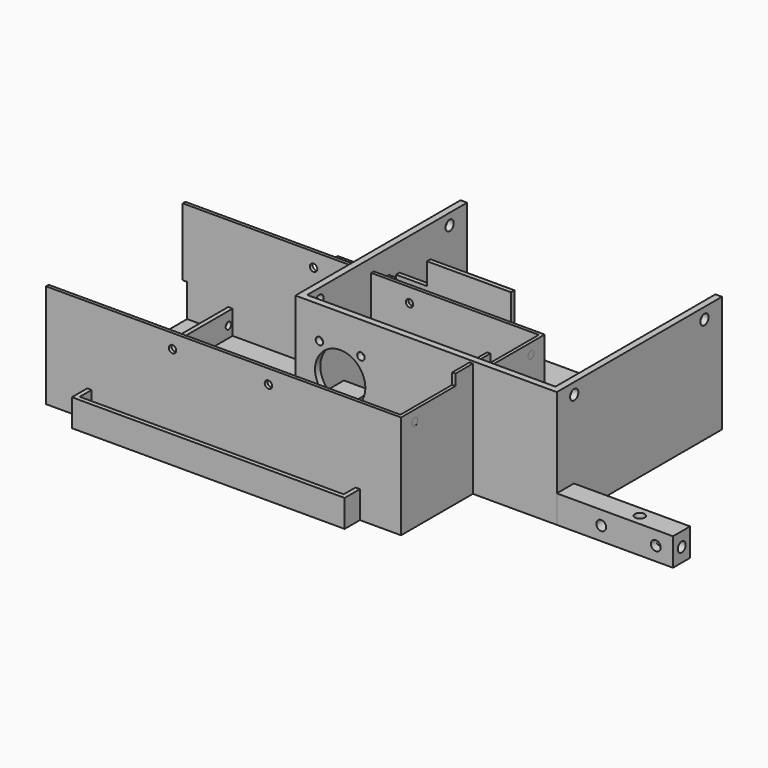
from build123d import *

# Parameters (mm, degrees)
SKETCH_W        = 162.3
SKETCH_H        = 9.8
SKETCH_R        = 1.7
PAD_DEPTH       = 0.75
SKETCH001_W     = 254
SKETCH001_H     = 9.8
SKETCH001_R     = 1.7
SKETCH001_R_2   = 2.25
PAD001_DEPTH    = 12.7
SKETCH002_R     = 2.25
POCKET_DEPTH    = 9.801
SKETCH003_R     = 2.25
POCKET001_DEPTH = 10
SKETCH004_R     = 2.25
POCKET002_DEPTH = 10
SKETCH005_W     = 119.65
SKETCH005_H     = 94.5
PAD002_DEPTH    = 1.5
SKETCH006_W     = 1.5
SKETCH006_H     = 94.5
PAD003_DEPTH    = 10
SKETCH007_R     = 1.7
POCKET003_DEPTH = 1.5
PAD004_DEPTH    = 52
SKETCH009_R     = 4
POCKET004_DEPTH = 3
SKETCH010_R     = 11.5
SKETCH010_R_2   = 1.7
POCKET005_DEPTH = 3
SKETCH011_W     = 16
SKETCH011_H     = 9
PAD005_DEPTH    = 9
SKETCH012_R     = 1.6
POCKET006_DEPTH = 16.001
POCKET007_DEPTH = 13
SKETCH014_R     = 1.7
POCKET008_DEPTH = 1.5
SKETCH015_R     = 2.35
POCKET009_DEPTH = 119.651
SKETCH016_W     = 124.85
SKETCH016_H     = 99.7
PAD006_DEPTH    = 1.5
SKETCH017_W     = 124.85
SKETCH017_H     = 99.7
SKETCH017_W_2   = 120.85
SKETCH017_H_2   = 95.7
PAD007_DEPTH    = 11
SKETCH018_R     = 1.6
POCKET010_DEPTH = 124.851
SKETCH019_R     = 2.5
SKETCH019_R_2   = 1.1
PAD008_DEPTH    = 8
SKETCH020_W     = 38.5
SKETCH020_H     = 2
PAD009_DEPTH    = 42.5
SKETCH021_W     = 14.1
SKETCH021_H     = 2
PAD010_DEPTH    = 32.5
SKETCH022_W     = 28.3
SKETCH022_H     = 2
PAD011_DEPTH    = 30
SKETCH023_W     = 40.25
SKETCH023_H     = 2
PAD012_DEPTH    = 10
SKETCH024_W     = 162.5
SKETCH024_H     = 82.2
PAD013_DEPTH    = 1.5
PAD014_DEPTH    = 46
SKETCH026_W     = 1.5
SKETCH026_H     = 31
PAD015_DEPTH    = 2
SKETCH027_W     = 1.5
SKETCH027_H     = 20
PAD016_DEPTH    = 5
SKETCH028_R     = 1.7
POCKET011_DEPTH = 0.001
SKETCH029_R     = 1.7
POCKET012_DEPTH = 82.201


with BuildPart() as obj1:
    # Sketch → Pad (new body)
    with BuildSketch(Plane.XY):
        with Locations((0, 4.9)):
            Rectangle(SKETCH_W, SKETCH_H)
        with Locations((-65.8625, 5)):
            Circle(SKETCH_R, mode=Mode.SUBTRACT)
        with Locations((65.8625, 5)):
            Circle(SKETCH_R, mode=Mode.SUBTRACT)
    extrude(amount=PAD_DEPTH)


with BuildPart() as obj2:
    # Sketch001 → Pad001 (new body)
    with BuildSketch(Plane.XY):
        with Locations((45.85, 4.9)):
            Rectangle(SKETCH001_W, SKETCH001_H)
        with Locations((-65.8625, 5)):
            Circle(SKETCH001_R, mode=Mode.SUBTRACT)
        with Locations((65.8625, 5)):
            Circle(SKETCH001_R, mode=Mode.SUBTRACT)
        with Locations((-21.9525, 5)):
            Circle(SKETCH001_R_2, mode=Mode.SUBTRACT)
        with Locations((21.9575, 5)):
            Circle(SKETCH001_R_2, mode=Mode.SUBTRACT)
        with Locations((109.7725, 5)):
            Circle(SKETCH001_R_2, mode=Mode.SUBTRACT)
        with Locations((153.6825, 5)):
            Circle(SKETCH001_R_2, mode=Mode.SUBTRACT)
    extrude(amount=PAD001_DEPTH)

    # Sketch002 (on Face3 of Pad001) → Pocket (cut, through all)
    with BuildSketch(Plane(origin=(0, 9.8, 0), x_dir=(-1, 0, 0), z_dir=(0, 1, 0))):
        with Locations((-165, 6.35)):
            Circle(SKETCH002_R)
        with Locations((-140, 6.35)):
            Circle(SKETCH002_R)
        with Locations((50, 6.35)):
            Circle(SKETCH002_R)
        with Locations((75, 6.35)):
            Circle(SKETCH002_R)
    extrude(amount=-POCKET_DEPTH, mode=Mode.SUBTRACT)

    # Sketch003 (on Face5 of Pocket) → Pocket001 (cut)
    with BuildSketch(Plane.YZ.offset(172.85)):
        with Locations((5, 6.35)):
            Circle(SKETCH003_R)
    extrude(amount=-POCKET001_DEPTH, mode=Mode.SUBTRACT)

    # Sketch004 (on Face2 of Pocket001) → Pocket002 (cut)
    with BuildSketch(Plane(origin=(-81.15, 0, 0), x_dir=(0, -1, 0), z_dir=(-1, 0, 0))):
        with Locations((-5, 6.35)):
            Circle(SKETCH004_R)
    extrude(amount=-POCKET002_DEPTH, mode=Mode.SUBTRACT)


with BuildPart() as motorbox1body:
    # Sketch005 → Pad002 (new body)
    with BuildSketch(Plane.XY):
        with Locations((59.825, 47.25)):
            Rectangle(SKETCH005_W, SKETCH005_H)
    extrude(amount=PAD002_DEPTH)

    # Sketch006 (on Face6 of Pad002) → Pad003 (join)
    with BuildSketch(Plane.XY.offset(1.5)):
        with Locations((37.25, 47.25)):
            Rectangle(SKETCH006_W, SKETCH006_H)
    extrude(amount=PAD003_DEPTH)

    # Sketch007 (on Face10 of Pad003) → Pocket003 (cut)
    with BuildSketch(Plane(origin=(36.5, 0, 0), x_dir=(0, -1, 0), z_dir=(-1, 0, 0))):
        with Locations((-66.09, 6.5)):
            Circle(SKETCH007_R)
    extrude(amount=-POCKET003_DEPTH, mode=Mode.SUBTRACT)

    # Sketch008 (on Face7 of Pocket003) → Pad004 (join)
    with BuildSketch(Plane.XY.offset(1.5)):
        Polygon((0, 0), (119.65, 0), (119.65, 94.5), (116.65, 94.5), (116.65, 3), (3, 3), (3, 94.5), (0, 94.5), align=None)
    extrude(amount=PAD004_DEPTH)

    # Sketch009 (on Face5 of Pad004) → Pocket004 (cut)
    with BuildSketch(Plane(origin=(0, 0, 0), x_dir=(0, -1, 0), z_dir=(-1, 0, 0))):
        with Locations((-35, 26.75)):
            Circle(SKETCH009_R)
    extrude(amount=-POCKET004_DEPTH, mode=Mode.SUBTRACT)

    # Sketch010 (on Face18 of Pocket004) → Pocket005 (cut)
    with BuildSketch(Plane(origin=(0, 3, 0), x_dir=(-1, 0, 0), z_dir=(0, 1, 0))):
        with Locations((-20.5, 26.75)):
            Circle(SKETCH010_R)
        with Locations((-30, 38.75)):
            Circle(SKETCH010_R_2)
        with Locations((-11, 38.75)):
            Circle(SKETCH010_R_2)
        with Locations((-11, 14.75)):
            Circle(SKETCH010_R_2)
        with Locations((-30, 14.75)):
            Circle(SKETCH010_R_2)
    extrude(amount=-POCKET005_DEPTH, mode=Mode.SUBTRACT)

    # Sketch011 (on Face10 of Pocket005) → Pad005 (join)
    with BuildSketch(Plane.XY.offset(1.5)):
        with Locations((8, 19.5)):
            Rectangle(SKETCH011_W, SKETCH011_H)
    extrude(amount=PAD005_DEPTH)

    # Sketch012 (on Face25 of Pad005) → Pocket006 (cut, through all)
    with BuildSketch(Plane.YZ.offset(16)):
        with Locations((19.5, 6)):
            Circle(SKETCH012_R)
    extrude(amount=-POCKET006_DEPTH, mode=Mode.SUBTRACT)

    # Sketch013 (on Face26 of Pocket006) → Pocket007 (cut)
    with BuildSketch(Plane.YZ.offset(16)):
        Polygon((22.3, 6), (20.9, 8.424871), (18.1, 8.424871), (16.7, 6), (18.1, 3.575129), (20.9, 3.575129), align=None)
    extrude(amount=-POCKET007_DEPTH, mode=Mode.SUBTRACT)

    # Sketch014 (on Face4 of Pocket007) → Pocket008 (cut)
    with BuildSketch(Plane(origin=(0, 0, 0), x_dir=(1, 0, 0), z_dir=(0, 0, -1))):
        with Locations((45.3, -35.5)):
            Circle(SKETCH014_R)
        with Locations((110.3, -35.5)):
            Circle(SKETCH014_R)
    extrude(amount=-POCKET008_DEPTH, mode=Mode.SUBTRACT)

    # Sketch015 (on Face20 of Pocket008) → Pocket009 (cut, through all)
    with BuildSketch(Plane.YZ.offset(119.65)):
        with Locations((10, 48.4)):
            Circle(SKETCH015_R)
        with Locations((84.5, 48.4)):
            Circle(SKETCH015_R)
    extrude(amount=-POCKET009_DEPTH, mode=Mode.SUBTRACT)


with BuildPart() as coverpad:
    # Sketch016 → Pad006 (new body)
    with BuildSketch(Plane.XY):
        Rectangle(SKETCH016_W, SKETCH016_H)
    extrude(amount=PAD006_DEPTH)

    # Sketch017 (on Face6 of Pad006) → Pad007 (join)
    with BuildSketch(Plane.XY.offset(1.5)):
        Rectangle(SKETCH017_W, SKETCH017_H)
        Rectangle(SKETCH017_W_2, SKETCH017_H_2, mode=Mode.SUBTRACT)
    extrude(amount=PAD007_DEPTH)

    # Sketch018 (on Face5 of Pad007) → Pocket010 (cut, through all)
    with BuildSketch(Plane(origin=(-62.425, 0, 0), x_dir=(0, -1, 0), z_dir=(-1, 0, 0))):
        with Locations((-37.25, 6.6)):
            Circle(SKETCH018_R)
        with Locations((37.25, 6.6)):
            Circle(SKETCH018_R)
    extrude(amount=-POCKET010_DEPTH, mode=Mode.SUBTRACT)

    # Sketch019 (on Face19 of Pocket010) → Pad008 (join)
    with BuildSketch(Plane.XY.offset(1.5)):
        with Locations((-12.12, 23.25)):
            Circle(SKETCH019_R)
        with Locations((-12.12, 23.25)):
            Circle(SKETCH019_R_2, mode=Mode.SUBTRACT)
        with Locations((53.63, 23.25)):
            Circle(SKETCH019_R)
        with Locations((53.63, 23.25)):
            Circle(SKETCH019_R_2, mode=Mode.SUBTRACT)
        with Locations((53.63, -23.25)):
            Circle(SKETCH019_R)
        with Locations((53.63, -23.25)):
            Circle(SKETCH019_R_2, mode=Mode.SUBTRACT)
        with Locations((-12.12, -23.25)):
            Circle(SKETCH019_R)
        with Locations((-12.12, -23.25)):
            Circle(SKETCH019_R_2, mode=Mode.SUBTRACT)
    extrude(amount=PAD008_DEPTH)

    # Sketch020 (on Face9 of Pad008) → Pad009 (join)
    with BuildSketch(Plane.XY.offset(12.5)):
        with Locations((41.17, 48.85)):
            Rectangle(SKETCH020_W, SKETCH020_H)
    extrude(amount=PAD009_DEPTH)

    # Sketch021 (on Face9 of Pad009) → Pad010 (join)
    with BuildSketch(Plane.XY.offset(12.5)):
        with Locations((14.875, 48.85)):
            Rectangle(SKETCH021_W, SKETCH021_H)
    extrude(amount=PAD010_DEPTH)

    # Sketch022 (on Face9 of Pad010) → Pad011 (join)
    with BuildSketch(Plane.XY.offset(12.5)):
        with Locations((-6.325, 48.85)):
            Rectangle(SKETCH022_W, SKETCH022_H)
    extrude(amount=PAD011_DEPTH)

    # Sketch023 (on Face9 of Pad011) → Pad012 (join)
    with BuildSketch(Plane.XY.offset(12.5)):
        with Locations((-40.395, 48.85)):
            Rectangle(SKETCH023_W, SKETCH023_H)
    extrude(amount=PAD012_DEPTH)


with BuildPart() as bigcoverbody:
    # Sketch024 → Pad013 (new body)
    with BuildSketch(Plane.XY):
        Rectangle(SKETCH024_W, SKETCH024_H)
    extrude(amount=PAD013_DEPTH)

    # Sketch025 (on Face6 of Pad013) → Pad014 (join)
    with BuildSketch(Plane.XY.offset(1.5)):
        Polygon((-81.25, 41.1), (81.25, 41.1), (81.25, -41.1), (-81.25, -41.1), (-81.25, -39.6), (79.75, -39.6), (79.75, 39.6), (-81.25, 39.6), align=None)
    extrude(amount=PAD014_DEPTH)

    # Sketch026 (on Face2 of Pad014) → Pad015 (join)
    with BuildSketch(Plane(origin=(-81.25, 0, 0), x_dir=(0, -1, 0), z_dir=(-1, 0, 0))):
        with Locations((-40.35, 32)):
            Rectangle(SKETCH026_W, SKETCH026_H)
    extrude(amount=PAD015_DEPTH)

    # Sketch027 (on Face12 of Pad015) → Pad016 (join)
    with BuildSketch(Plane.XY.offset(47.5)):
        with Locations((80.5, 0)):
            Rectangle(SKETCH027_W, SKETCH027_H)
    extrude(amount=PAD016_DEPTH)

    # Sketch028 (on Face15 of Pad016) → Pocket011 (cut)
    with BuildSketch(Plane.YZ.offset(81.25)):
        with Locations((-33.25, 42.5)):
            Circle(SKETCH028_R)
        with Locations((33.25, 42.5)):
            Circle(SKETCH028_R)
    extrude(amount=-POCKET011_DEPTH, mode=Mode.SUBTRACT)

    # Sketch029 (on Face5 of Pocket011) → Pocket012 (cut, through all)
    with BuildSketch(Plane(origin=(0, 41.1, 0), x_dir=(-1, 0, 0), z_dir=(0, 1, 0))):
        with Locations((-20.55, 41)):
            Circle(SKETCH029_R)
        with Locations((23.36, 41)):
            Circle(SKETCH029_R)
    extrude(amount=-POCKET012_DEPTH, mode=Mode.SUBTRACT)


solid = Compound([obj1.part, obj2.part, motorbox1body.part, coverpad.part, bigcoverbody.part])
